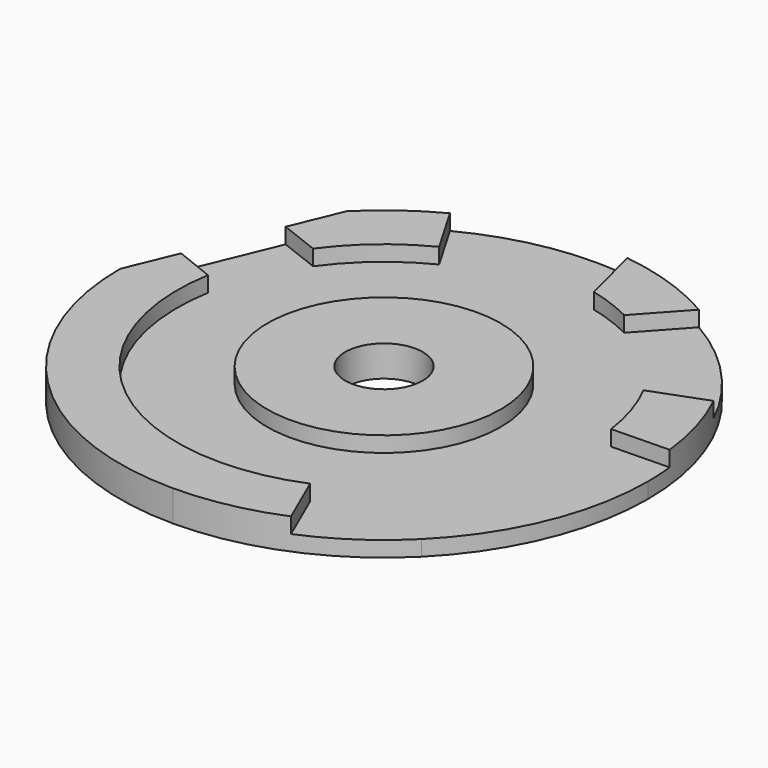
from build123d import *

# Parameters (mm, degrees)
F0_R     = 2.5
F1_DEPTH = 2
F2_R     = 7.515856
F3_DEPTH = 1


with BuildPart() as f1:
    # F0 (on Top) → F1 (new body)
    with BuildSketch(Plane.XY):
        Polygon((-12.020815, 12.020815), (-17, 0), (-12.020815, -12.020815), (0, -17), (12.020815, -12.020815), (17, 0), (12.020815, 12.020815), (0, 17), align=None)
        Circle(F0_R, mode=Mode.SUBTRACT)
        with BuildLine():
            Line((-12.020815, -12.020815), (-17, 0))
            ThreePointArc((-17, 0), (-15.705952, -6.505618), (-12.020815, -12.020815))
        make_face()
        with BuildLine():
            Line((0, -17), (-12.020815, -12.020815))
            ThreePointArc((-12.020815, -12.020815), (-6.505618, -15.705952), (0, -17))
        make_face()
        with BuildLine():
            ThreePointArc((12.020815, 12.020815), (6.505618, 15.705952), (0, 17))
            Line((0, 17), (12.020815, 12.020815))
        make_face()
        with BuildLine():
            ThreePointArc((0, 17), (-6.505618, 15.705952), (-12.020815, 12.020815))
            Line((-12.020815, 12.020815), (0, 17))
        make_face()
        with BuildLine():
            Line((12.020815, -12.020815), (0, -17))
            ThreePointArc((0, -17), (6.505618, -15.705952), (12.020815, -12.020815))
        make_face()
        with BuildLine():
            Line((17, 0), (12.020815, -12.020815))
            ThreePointArc((12.020815, -12.020815), (15.705952, -6.505618), (17, 0))
        make_face()
        with BuildLine():
            ThreePointArc((17, 0), (15.705952, 6.505618), (12.020815, 12.020815))
            Line((12.020815, 12.020815), (17, 0))
        make_face()
    extrude(amount=F1_DEPTH)

    # F2 (on face) → F3 (cut)
    with BuildSketch(Plane.XY.offset(2)):
        with BuildLine():
            ThreePointArc((5.083452, -12.298878), (11.062429, -7.39774), (13.308039, 0))
            ThreePointArc((13.308039, 0), (13.277371, 0.902941), (13.185511, 1.801721))
            ThreePointArc((13.185511, 1.801721), (12.686937, 4.018148), (11.818644, 6.11748))
            ThreePointArc((11.818644, 6.11748), (9.343304, 9.476632), (5.949418, 11.90413))
            ThreePointArc((5.949418, 11.90413), (4.594843, 12.489648), (3.183769, 12.921591))
            ThreePointArc((3.183769, 12.921591), (-1.482289, 13.22523), (-5.965352, 11.896154))
            ThreePointArc((-5.965352, 11.896154), (-8.629275, 10.131116), (-10.795632, 7.781917))
            ThreePointArc((-10.795632, 7.781917), (-12.276691, 5.136803), (-13.120696, 2.225133))
            ThreePointArc((-13.120696, 2.225133), (-8.299762, -10.40278), (5.083452, -12.298878))
        make_face()
        Circle(F2_R, mode=Mode.SUBTRACT)
        with BuildLine():
            ThreePointArc((-5.965352, 11.896154), (-1.482289, 13.22523), (3.183769, 12.921591))
            Line((3.183769, 12.921591), (2.179099, 16.859761))
            ThreePointArc((2.179099, 16.859761), (-2.95856, 16.740577), (-7.825857, 15.091586))
            Line((-7.825857, 15.091586), (-5.965352, 11.896154))
        make_face()
        with BuildLine():
            Line((-15.658458, 3.238769), (-13.120696, 2.225133))
            ThreePointArc((-13.120696, 2.225133), (-12.276691, 5.136803), (-10.795632, 7.781917))
            Line((-10.795632, 7.781917), (-13.362357, 8.782046))
            Line((-13.362357, 8.782046), (-15.658458, 3.238769))
        make_face()
        with BuildLine():
            ThreePointArc((5.949418, 11.90413), (9.343304, 9.476632), (11.818644, 6.11748))
            Line((11.818644, 6.11748), (15.297168, 7.415972))
            ThreePointArc((15.297168, 7.415972), (12.451305, 11.574326), (8.511499, 14.715787))
            Line((8.511499, 14.715787), (5.949418, 11.90413))
        make_face()
        with BuildLine():
            ThreePointArc((13.185511, 1.801721), (13.277371, 0.902941), (13.308039, 0))
            ThreePointArc((13.308039, 0), (11.062429, -7.39774), (5.083452, -12.298878))
            Line((5.083452, -12.298878), (6.557151, -15.684507))
            ThreePointArc((6.557151, -15.684507), (14.150469, -9.421476), (17, 0))
            ThreePointArc((17, 0), (16.973942, 0.940909), (16.895846, 1.878933))
            Line((16.895846, 1.878933), (13.185511, 1.801721))
        make_face()
    extrude(amount=-F3_DEPTH, mode=Mode.SUBTRACT)


solid = f1.part
